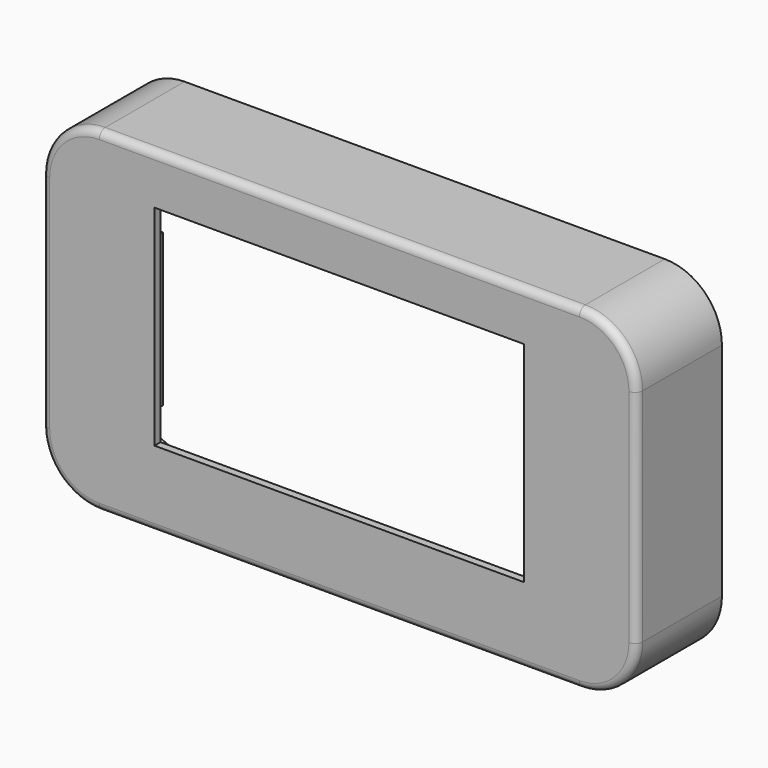
from build123d import *

# Parameters (mm, degrees)
F1_DEPTH  = 28
F2_T      = -2
F4_W      = 97
F4_H      = 55
F5_DEPTH  = 50
F6_W      = 4
F6_H      = 40
F7_DEPTH  = 6
F8_R      = 2
F10_R     = 4
F10_R_2   = 1.5
F11_DEPTH = 12


with BuildPart() as f1:
    # F0 (on Front) → F1 (new body)
    with BuildSketch(Plane.XZ):
        with BuildLine():
            Line((63, 44), (-63, 44))
            ThreePointArc((-63, 44), (-73.606602, 39.606602), (-78, 29))
            Line((-78, 29), (-78, -29))
            ThreePointArc((-78, -29), (-73.606602, -39.606602), (-63, -44))
            Line((-63, -44), (63, -44))
            ThreePointArc((63, -44), (73.606602, -39.606602), (78, -29))
            Line((78, -29), (78, 29))
            ThreePointArc((78, 29), (73.606602, 39.606602), (63, 44))
        make_face()
    extrude(amount=F1_DEPTH)

    # F2
    f2_openings = [f1.faces().sort_by_distance(p)[0] for p in [
        (0, 0, 0),
    ]]
    offset(amount=F2_T, openings=f2_openings)

    # F4 (on Front) → F5 (cut)
    with BuildSketch(Plane.XZ):
        with Locations((0, 3.5)):
            Rectangle(F4_W, F4_H)
    extrude(amount=F5_DEPTH, mode=Mode.SUBTRACT)

    # F8
    f8_edges = [f1.edges().sort_by_distance(p)[0] for p in [
        (0, -28, 44),
        (78, -28, 0),
    ]]
    fillet(f8_edges, radius=F8_R)

    # F10 (on offset) → F11 (join)
    with BuildSketch(Plane.XZ.offset(25)):
        with Locations((45, 38.4)):
            Circle(F10_R)
        with Locations((45, 38.4)):
            Circle(F10_R_2, mode=Mode.SUBTRACT)
        with Locations((-45, 38.4)):
            Circle(F10_R)
        with Locations((-45, 38.4)):
            Circle(F10_R_2, mode=Mode.SUBTRACT)
        with Locations((45, -38.4)):
            Circle(F10_R)
        with Locations((45, -38.4)):
            Circle(F10_R_2, mode=Mode.SUBTRACT)
        with Locations((-45, -38.4)):
            Circle(F10_R)
        with Locations((-45, -38.4)):
            Circle(F10_R_2, mode=Mode.SUBTRACT)
    extrude(amount=-F11_DEPTH)


with BuildPart() as f7:
    # F6 (on offset) → F7 (new body)
    with BuildSketch(Plane.XZ.offset(25)):
        with Locations((55.5, 0)):
            Rectangle(F6_W, F6_H)
        with Locations((-55.5, 0)):
            Rectangle(F6_W, F6_H)
    extrude(amount=-F7_DEPTH)


solid = Compound([f1.part, f7.part])
